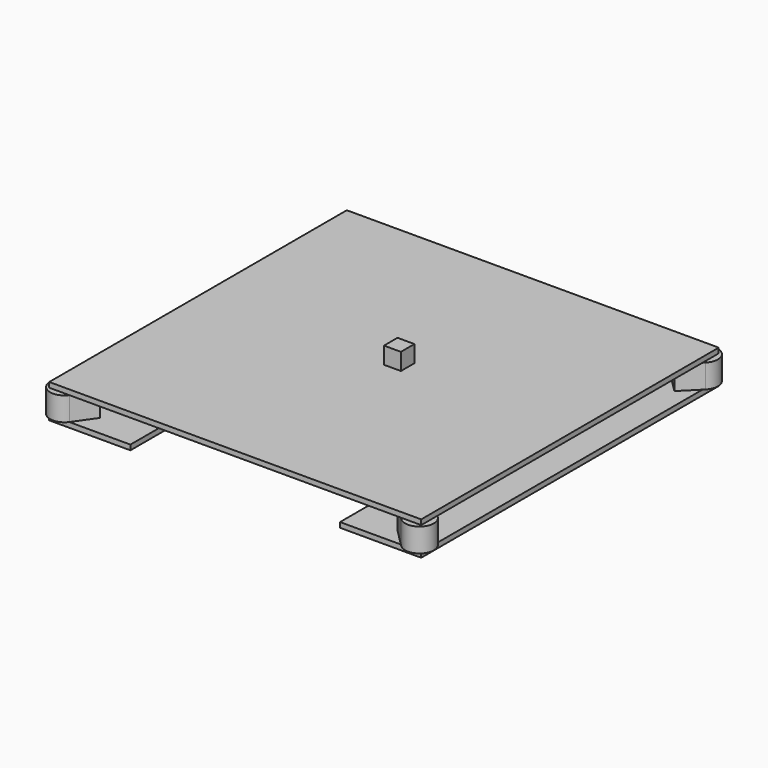
from build123d import *

# Parameters (mm, degrees)
SKETCH_W                      = 220
SKETCH_H                      = 220
PAD_DEPTH                     = 3
SKETCH002_R                   = 2
PAD002_DEPTH                  = 14
BODY002_PLACEMENT_ANGLE       = 45
PAD003_DEPTH                  = 3
SKETCH007_R                   = 2
PAD007_DEPTH                  = 14
BODY002005005_PLACEMENT_ANGLE = 135
SKETCH008_R                   = 2
PAD008_DEPTH                  = 14
BODY002005006_PLACEMENT_ANGLE = 225
SKETCH009_R                   = 2
PAD009_DEPTH                  = 14
BODY002005007_PLACEMENT_ANGLE = 35
BOX_W                         = 10
BOX_H                         = 10
BOX_DEPTH                     = 10


with BuildPart() as alu_plat:
    # Sketch → Pad (new body)
    with BuildSketch(Plane.XY):
        Rectangle(SKETCH_W, SKETCH_H)
    extrude(amount=-PAD_DEPTH)


with BuildPart() as silicon:
    # Sketch002 → Pad002 (new body)
    with BuildSketch(Plane.XY):
        with BuildLine():
            ThreePointArc((-8.5, 0), (0, -8.5), (8.5, 0))
            Line((8.5, 14.5), (8.5, 0))
            Line((-8.5, 14.5), (8.5, 14.5))
            Line((-8.5, 0), (-8.5, 14.5))
        make_face()
        Circle(SKETCH002_R, mode=Mode.SUBTRACT)
    extrude(amount=PAD002_DEPTH)


with BuildPart() as silicon_1:
    # Body002 placement: moved
    add(silicon.part.moved(Location((105, -105, -17))).rotate(Axis((105, -105, -17), (0, 0, 1)), BODY002_PLACEMENT_ANGLE))


with BuildPart() as h_plat:
    # Sketch003 → Pad003 (new body)
    with BuildSketch(Plane.XY):
        Polygon((-110, 110), (-62, 110), (-62, 16), (62, 16), (62, 110), (110, 110), (110, -110), (62, -110), (62, -16), (-62, -16), (-62, -110), (-110, -110), align=None)
    extrude(amount=PAD003_DEPTH)


with BuildPart() as h_plat_1:
    # Body002004 placement: moved
    add(h_plat.part.moved(Location((0, 0, -20))))


with BuildPart() as silicon001:
    # Sketch007 → Pad007 (new body)
    with BuildSketch(Plane.XY):
        with BuildLine():
            ThreePointArc((-8.5, 0), (0, -8.5), (8.5, 0))
            Line((8.5, 14.5), (8.5, 0))
            Line((-8.5, 14.5), (8.5, 14.5))
            Line((-8.5, 0), (-8.5, 14.5))
        make_face()
        Circle(SKETCH007_R, mode=Mode.SUBTRACT)
    extrude(amount=PAD007_DEPTH)


with BuildPart() as silicon001_1:
    # Body002005005 placement: moved
    add(silicon001.part.moved(Location((105, 105, -17))).rotate(Axis((105, 105, -17), (0, 0, 1)), BODY002005005_PLACEMENT_ANGLE))


with BuildPart() as silicon002:
    # Sketch008 → Pad008 (new body)
    with BuildSketch(Plane.XY):
        with BuildLine():
            ThreePointArc((-8.5, 0), (0, -8.5), (8.5, 0))
            Line((8.5, 14.5), (8.5, 0))
            Line((-8.5, 14.5), (8.5, 14.5))
            Line((-8.5, 0), (-8.5, 14.5))
        make_face()
        Circle(SKETCH008_R, mode=Mode.SUBTRACT)
    extrude(amount=PAD008_DEPTH)


with BuildPart() as silicon002_1:
    # Body002005006 placement: moved
    add(silicon002.part.moved(Location((-105, 105, -17))).rotate(Axis((-105, 105, -17), (0, 0, 1)), BODY002005006_PLACEMENT_ANGLE))


with BuildPart() as silicon003:
    # Sketch009 → Pad009 (new body)
    with BuildSketch(Plane.XY):
        with BuildLine():
            ThreePointArc((-8.5, 0), (0, -8.5), (8.5, 0))
            Line((8.5, 14.5), (8.5, 0))
            Line((-8.5, 14.5), (8.5, 14.5))
            Line((-8.5, 0), (-8.5, 14.5))
        make_face()
        Circle(SKETCH009_R, mode=Mode.SUBTRACT)
    extrude(amount=PAD009_DEPTH)


with BuildPart() as silicon003_1:
    # Body002005007 placement: moved
    add(silicon003.part.moved(Location((-105, -105, -17))).rotate(Axis((-105, -105, -17), (0, 0, -1)), BODY002005007_PLACEMENT_ANGLE))


with BuildPart() as cube:
    # Box → Box (new body)
    with BuildSketch(Plane.XY):
        with Locations((5, 5)):
            Rectangle(BOX_W, BOX_H)
    extrude(amount=BOX_DEPTH)


solid = Compound([alu_plat.part, silicon_1.part, h_plat_1.part, silicon001_1.part, silicon002_1.part, silicon003_1.part, cube.part])
